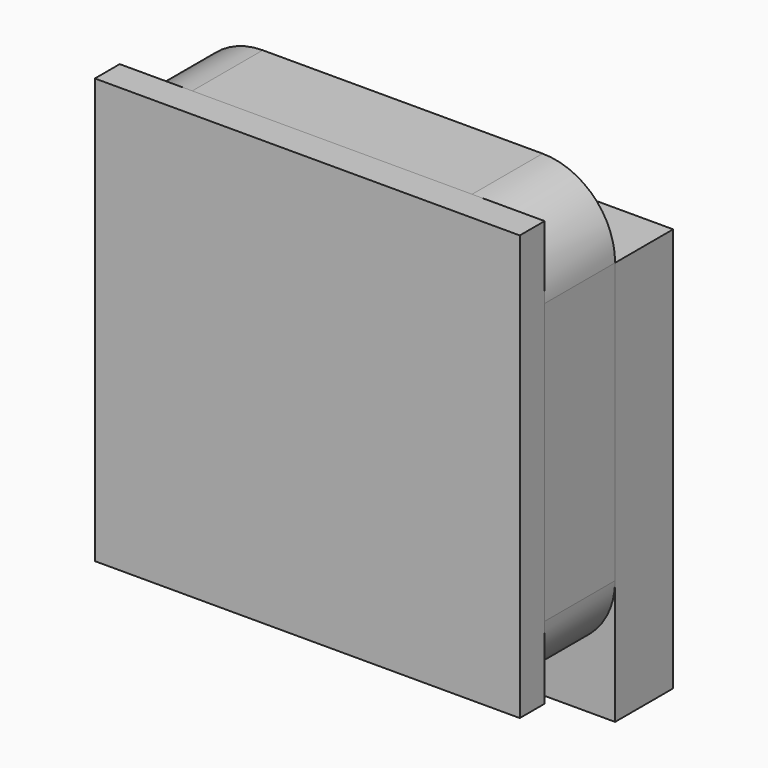
from build123d import *

# Parameters (mm, degrees)
F0_W     = 520.7
F0_H     = 520.7
F1_DEPTH = 107.95
F2_R     = 88.9
F4_DEPTH = 88.9
F6_DEPTH = 38.1


with BuildPart() as f1:
    # F0 (on Front) → F1 (new body)
    with BuildSketch(Plane.XZ):
        with Locations((-73.391706044, 4.9916096032)):
            Rectangle(F0_W, F0_H)
    extrude(amount=-F1_DEPTH)

    # F2
    f2_edges = [f1.edges().sort_by_distance(p)[0] for p in [
        (186.958294, 53.975, 265.34161),
        (186.958294, 53.975, -255.35839),
        (-333.741706, 53.975, -255.35839),
        (-333.741706, 53.975, 265.34161),
    ]]
    fillet(f2_edges, radius=F2_R)


with BuildPart() as f4:
    # F3 (on face) → F4 (new body)
    with BuildSketch(Plane(origin=(0, 107.95, 0), x_dir=(-1, 0, 0), z_dir=(0, 1, 0))):
        with BuildLine():
            ThreePointArc((-98.058293956, -255.3583903968), (-160.9200868035, -229.3201832443), (-186.958293956, -166.4583903968))
            Line((-186.958293956, -166.4583903968), (-186.958293956, -318.8583903968))
            Line((-186.958293956, -318.8583903968), (308.341706044, -318.8583903968))
            Line((308.341706044, -318.8583903968), (308.341706044, -228.6754298635))
            ThreePointArc((308.341706044, -228.6754298635), (279.280892964, -248.4166261288), (244.841706044, -255.3583903968))
            Line((244.841706044, -255.3583903968), (-98.058293956, -255.3583903968))
        make_face()
        with BuildLine():
            Line((308.341706044, 176.4416096032), (-186.958293956, 176.4416096032))
            Line((-186.958293956, 176.4416096032), (-186.958293956, -166.4583903968))
            ThreePointArc((-186.958293956, -166.4583903968), (-160.9200868035, -229.3201832443), (-98.058293956, -255.3583903968))
            Line((-98.058293956, -255.3583903968), (244.841706044, -255.3583903968))
            ThreePointArc((244.841706044, -255.3583903968), (279.280892964, -248.4166261288), (308.341706044, -228.6754298635))
            Line((308.341706044, -228.6754298635), (308.341706044, 176.4416096032))
        make_face()
    extrude(amount=F4_DEPTH)


with BuildPart() as f6:
    # F5 (on face) → F6 (new body)
    with BuildSketch(Plane.XZ):
        with BuildLine():
            ThreePointArc((186.958293956, -166.4583903968), (160.9200868035, -229.3201832443), (98.058293956, -255.3583903968))
            Line((98.058293956, -255.3583903968), (186.958293956, -255.3583903968))
            Line((186.958293956, -255.3583903968), (186.958293956, -166.4583903968))
        make_face()
        with BuildLine():
            ThreePointArc((-333.741706044, -166.4583903968), (-307.7034988915, -229.3201832443), (-244.841706044, -255.3583903968))
            Line((-244.841706044, -255.3583903968), (98.058293956, -255.3583903968))
            ThreePointArc((98.058293956, -255.3583903968), (160.9200868035, -229.3201832443), (186.958293956, -166.4583903968))
            Line((186.958293956, -166.4583903968), (186.958293956, 176.4416096032))
            ThreePointArc((186.958293956, 176.4416096032), (160.9200868035, 239.3034024507), (98.058293956, 265.3416096032))
            Line((98.058293956, 265.3416096032), (-244.841706044, 265.3416096032))
            ThreePointArc((-244.841706044, 265.3416096032), (-307.7034988915, 239.3034024507), (-333.741706044, 176.4416096032))
            Line((-333.741706044, 176.4416096032), (-333.741706044, -166.4583903968))
        make_face()
        with BuildLine():
            ThreePointArc((98.058293956, 265.3416096032), (160.9200868035, 239.3034024507), (186.958293956, 176.4416096032))
            Line((186.958293956, 176.4416096032), (186.958293956, 265.3416096032))
            Line((186.958293956, 265.3416096032), (98.058293956, 265.3416096032))
        make_face()
        with BuildLine():
            Line((-333.741706044, -166.4583903968), (-333.741706044, -255.3583903968))
            Line((-333.741706044, -255.3583903968), (-244.841706044, -255.3583903968))
            ThreePointArc((-244.841706044, -255.3583903968), (-307.7034988915, -229.3201832443), (-333.741706044, -166.4583903968))
        make_face()
        with BuildLine():
            Line((-333.741706044, 265.3416096032), (-333.741706044, 176.4416096032))
            ThreePointArc((-333.741706044, 176.4416096032), (-307.7034988915, 239.3034024507), (-244.841706044, 265.3416096032))
            Line((-244.841706044, 265.3416096032), (-333.741706044, 265.3416096032))
        make_face()
        with BuildLine():
            ThreePointArc((-333.741706044, -166.4583903968), (-307.7034988915, -229.3201832443), (-244.841706044, -255.3583903968))
            Line((-244.841706044, -255.3583903968), (98.058293956, -255.3583903968))
            ThreePointArc((98.058293956, -255.3583903968), (160.9200868035, -229.3201832443), (186.958293956, -166.4583903968))
            Line((186.958293956, -166.4583903968), (186.958293956, 176.4416096032))
            ThreePointArc((186.958293956, 176.4416096032), (160.9200868035, 239.3034024507), (98.058293956, 265.3416096032))
            Line((98.058293956, 265.3416096032), (-244.841706044, 265.3416096032))
            ThreePointArc((-244.841706044, 265.3416096032), (-307.7034988915, 239.3034024507), (-333.741706044, 176.4416096032))
            Line((-333.741706044, 176.4416096032), (-333.741706044, -166.4583903968))
        make_face()
    extrude(amount=F6_DEPTH)


solid = Compound([f1.part, f4.part, f6.part])
